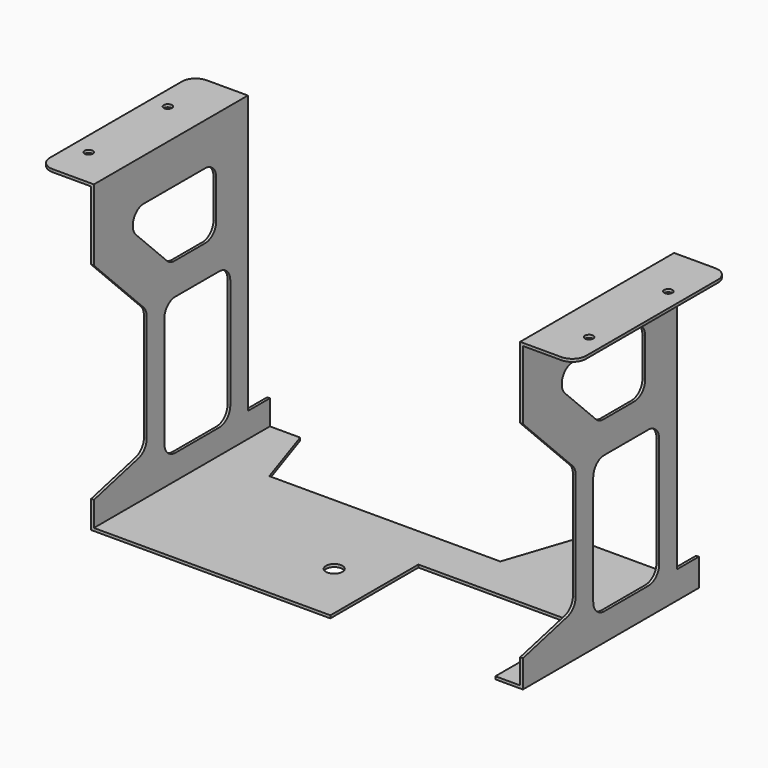
from build123d import *

# Parameters (mm, degrees)
F0_R     = 3
F1_DEPTH = 1
F3_DEPTH = 1
F5_DEPTH = 1
F6_R     = 1.5
F7_DEPTH = 1


with BuildPart() as f1:
    # F0 (on Top) → F1 (new body)
    with BuildSketch(Plane.XY):
        Polygon((68.5, -40), (78.5, -40), (78.5, 40), (33.5, 40), (25.5, 16), (-58.5, 16), (-66.5, 40), (-78.5, 40), (-78.5, -40), (8.5, -40), (8.5, 0), (68.5, 0), align=None)
        with Locations((-8.5, -17)):
            Circle(F0_R, mode=Mode.SUBTRACT)
    extrude(amount=F1_DEPTH)

    # F2 (on face) → F3 (join)
    with BuildSketch(Plane(origin=(-78.5, 0, 0), x_dir=(0, -1, 0), z_dir=(-1, 0, 0))):
        with BuildLine():
            Line((-40, 1), (40, 1))
            Line((40, 1), (40, 10))
            Line((40, 10), (19.787322, 15.05317))
            ThreePointArc((19.787322, 15.05317), (17.058973, 16.826821), (16, 19.903882))
            Line((16, 19.903882), (16, 58.928932))
            ThreePointArc((16, 58.928932), (16.380602, 60.842349), (17.464466, 62.464466))
            Line((17.464466, 62.464466), (40, 85))
            Line((40, 85), (40, 110))
            Line((40, 110), (-30, 110))
            Line((-30, 110), (-30, 10))
            Line((-30, 10), (-40, 10))
            Line((-40, 10), (-40, 1))
        make_face()
        with BuildLine():
            ThreePointArc((-22, 55), (-20.535534, 58.535534), (-17, 60))
            Line((-17, 60), (3, 60))
            ThreePointArc((3, 60), (6.535534, 58.535534), (8, 55))
            Line((8, 55), (8, 15))
            ThreePointArc((8, 15), (6.535534, 11.464466), (3, 10))
            Line((3, 10), (-17, 10))
            ThreePointArc((-17, 10), (-20.535534, 11.464466), (-22, 15))
            Line((-22, 15), (-22, 55))
        make_face(mode=Mode.SUBTRACT)
        with BuildLine():
            ThreePointArc((17.32233, 95.606602), (21.941728, 92.520019), (20.857864, 87.071068))
            Line((20.857864, 87.071068), (6.857864, 73.071068))
            ThreePointArc((6.857864, 73.071068), (5.235748, 71.987204), (3.32233, 71.606602))
            Line((3.32233, 71.606602), (-10.606602, 71.606602))
            ThreePointArc((-10.606602, 71.606602), (-14.142136, 73.071068), (-15.606602, 76.606602))
            Line((-15.606602, 76.606602), (-15.606602, 90.606602))
            ThreePointArc((-15.606602, 90.606602), (-14.142136, 94.142136), (-10.606602, 95.606602))
            Line((-10.606602, 95.606602), (17.32233, 95.606602))
        make_face(mode=Mode.SUBTRACT)
    extrude(amount=-F3_DEPTH)

    # F4 (on face) → F5 (join)
    with BuildSketch(Plane.YZ.offset(78.5)):
        with BuildLine():
            Line((-40, 0), (40, 0))
            Line((40, 0), (40, 10))
            Line((40, 10), (30, 10))
            Line((30, 10), (30, 110))
            Line((30, 110), (-40, 110))
            Line((-40, 110), (-40, 85))
            Line((-40, 85), (-17.464466, 62.464466))
            ThreePointArc((-17.464466, 62.464466), (-16.380602, 60.842349), (-16, 58.928932))
            Line((-16, 58.928932), (-16, 19.903882))
            ThreePointArc((-16, 19.903882), (-17.058973, 16.826821), (-19.787322, 15.05317))
            Line((-19.787322, 15.05317), (-40, 10))
            Line((-40, 10), (-40, 0))
        make_face()
        with BuildLine():
            Line((-3, 60), (17, 60))
            ThreePointArc((17, 60), (20.535534, 58.535534), (22, 55))
            Line((22, 55), (22, 15))
            ThreePointArc((22, 15), (20.535534, 11.464466), (17, 10))
            Line((17, 10), (-3, 10))
            ThreePointArc((-3, 10), (-6.535534, 11.464466), (-8, 15))
            Line((-8, 15), (-8, 55))
            ThreePointArc((-8, 55), (-6.535534, 58.535534), (-3, 60))
        make_face(mode=Mode.SUBTRACT)
        with BuildLine():
            Line((-6.857864, 73.071068), (-20.857864, 87.071068))
            ThreePointArc((-20.857864, 87.071068), (-21.941728, 92.520019), (-17.32233, 95.606602))
            Line((-17.32233, 95.606602), (10.606602, 95.606602))
            ThreePointArc((10.606602, 95.606602), (14.142136, 94.142136), (15.606602, 90.606602))
            Line((15.606602, 90.606602), (15.606602, 76.606602))
            ThreePointArc((15.606602, 76.606602), (14.142136, 73.071068), (10.606602, 71.606602))
            Line((10.606602, 71.606602), (-3.32233, 71.606602))
            ThreePointArc((-3.32233, 71.606602), (-5.235748, 71.987204), (-6.857864, 73.071068))
        make_face(mode=Mode.SUBTRACT)
    extrude(amount=-F5_DEPTH)

    # F6 (on face) → F7 (join)
    with BuildSketch(Plane.XY.offset(110)):
        with BuildLine():
            Line((77.5, 30), (77.5, -40))
            Line((77.5, -40), (92.5, -40))
            ThreePointArc((92.5, -40), (96.035534, -38.535534), (97.5, -35))
            Line((97.5, -35), (97.5, 25))
            ThreePointArc((97.5, 25), (96.035534, 28.535534), (92.5, 30))
            Line((92.5, 30), (77.5, 30))
        make_face()
        with Locations((91, -25.5)):
            Circle(F6_R, mode=Mode.SUBTRACT)
        with Locations((91, 10.5)):
            Circle(F6_R, mode=Mode.SUBTRACT)
        with BuildLine():
            ThreePointArc((-92.5, 30), (-96.035534, 28.535534), (-97.5, 25))
            Line((-97.5, 25), (-97.5, -35))
            ThreePointArc((-97.5, -35), (-96.035534, -38.535534), (-92.5, -40))
            Line((-92.5, -40), (-77.5, -40))
            Line((-77.5, -40), (-77.5, 30))
            Line((-77.5, 30), (-92.5, 30))
        make_face()
        with Locations((-91, -25.5)):
            Circle(F6_R, mode=Mode.SUBTRACT)
        with Locations((-91, 10.5)):
            Circle(F6_R, mode=Mode.SUBTRACT)
    extrude(amount=F7_DEPTH)


solid = f1.part
